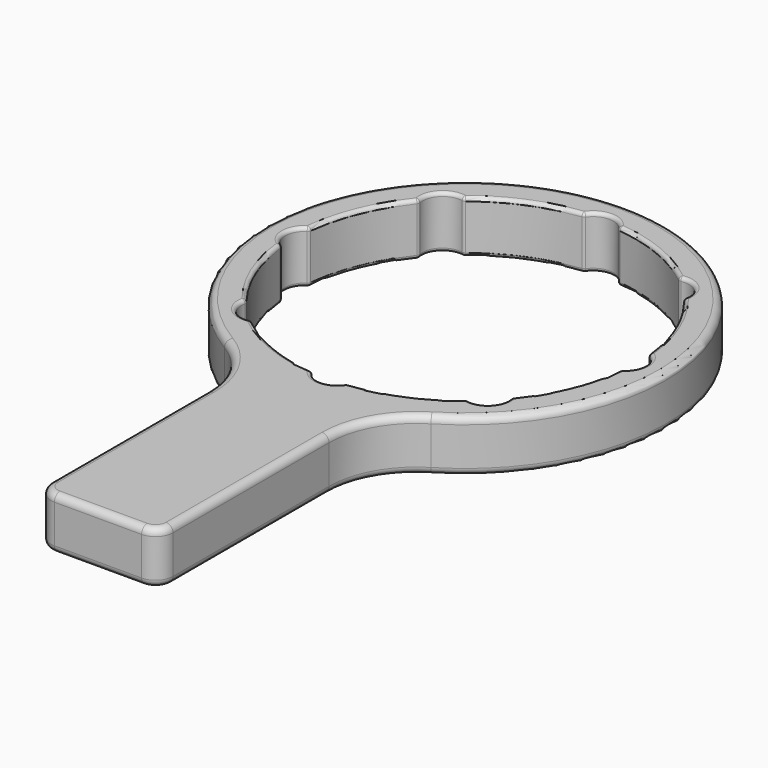
from build123d import *

# Parameters (mm, degrees)
SKETCH_R           = 57.5
SKETCH_R_2         = 49
PAD_DEPTH          = 15
SKETCH001_R        = 5.779503
POCKET_DEPTH       = 341.650659
POLARPATTERN_COUNT = 8
SKETCH002_W        = 35
SKETCH002_H        = 80
PAD001_DEPTH       = 15
FILLET_R           = 5
FILLET003_R        = 25
FILLET004_R        = 2
FILLET005_R        = 1


with BuildPart() as part:
    # Sketch → Pad (new body)
    with BuildSketch(Plane.XY):
        Circle(SKETCH_R)
        Circle(SKETCH_R_2, mode=Mode.SUBTRACT)
    extrude(amount=PAD_DEPTH)

    # Sketch001 (on Face4 of Pad) → Pocket (cut, through all)
    with BuildSketch(Plane.XY.offset(15)):
        with Locations((45.845497, 0)):
            Circle(SKETCH001_R)
    pocket = extrude(amount=-POCKET_DEPTH, mode=Mode.SUBTRACT)

    # PolarPattern: Pocket ×8 about axis
    polarpattern_axis = Axis((0, 0, 15), (0, 0, 1))
    for i in range(1, POLARPATTERN_COUNT):
        add(pocket.rotate(polarpattern_axis, i * 360 / POLARPATTERN_COUNT), mode=Mode.SUBTRACT)

    # Sketch002 → Pad001 (join)
    with BuildSketch(Plane.XY):
        with Locations((0, -91.625)):
            Rectangle(SKETCH002_W, SKETCH002_H)
    extrude(amount=PAD001_DEPTH)

    # Fillet
    fillet_edges = [part.edges().sort_by_distance(p)[0] for p in [
        (-17.5, -131.625, 7.5),
        (17.5, -131.625, 7.5),
    ]]
    fillet(fillet_edges, radius=FILLET_R)

    # Fillet003
    fillet003_edges = [part.edges().sort_by_distance(p)[0] for p in [
        (17.5, -54.772256, 7.5),
        (-17.5, -54.772256, 7.5),
    ]]
    fillet(fillet003_edges, radius=FILLET003_R)

    # Fillet004
    fillet004_edges = [part.edges().sort_by_distance(p)[0] for p in [
        (17.5, -98.667839, 15),
        (0, -131.625, 0),
    ]]
    fillet(fillet004_edges, radius=FILLET004_R)

    # Fillet005
    fillet005_edges = [part.edges().sort_by_distance(p)[0] for p in [
        (-17.5, -70.710678, 7.5),
        (-17.5, -98.667839, 13),
        (-17.5, -98.667839, 2),
        (-17.5, -126.625, 7.5),
        (-17.967331, -65.899426, 13),
        (-17.967331, -65.899426, 2),
        (-23.515949, -54.443969, 13),
        (-23.515949, -54.443969, 2),
        (-29.621212, -49.2832, 7.5),
        (-16.914214, -126.625, 14.414214),
        (-15.5, -98.667839, 15),
        (-16.914214, -70.710678, 14.414214),
        (-16.914214, -126.625, 0.585786),
        (-15.5, -98.667839, 0),
        (-16.914214, -70.710678, 0.585786),
        (-16.035534, -130.160534, 2),
        (-16.035534, -130.160534, 13),
        (-12.5, -131.625, 7.5),
        (-16.004718, -65.514526, 15),
        (-18.809457, -61.046795, 14.414213),
        (-16.004718, -65.514526, 0),
        (-18.809457, -61.046795, 0.585787),
        (-21.997225, -53.142633, 15),
        (-29.319443, -48.781123, 14.414214),
        (-21.997225, -53.142633, 0),
        (-29.319443, -48.781123, 0.585786),
        (-28.311043, 50.047326, 13),
        (-28.311043, 50.047326, 2),
        (57.5, 0, 7.5),
        (-12.5, -131.039214, 14.414214),
        (-14.62132, -128.74632, 15),
        (-17.5, -57.642447, 15),
        (0, -57.5, 15),
        (17.5, -57.642447, 15),
        (16.004718, -65.514526, 15),
        (0, -129.625, 15),
        (15.5, -98.667839, 15),
        (14.62132, -128.74632, 15),
        (-12.5, -131.039214, 0.585786),
        (-14.62132, -128.74632, 0),
        (-17.5, -57.642447, 0),
        (0, -57.5, 0),
        (17.5, -57.642447, 0),
        (16.004718, -65.514526, 0),
        (0, -129.625, 0),
        (15.5, -98.667839, 0),
        (14.62132, -128.74632, 0),
        (12.5, -131.625, 7.5),
        (0, -131.625, 2),
        (0, -131.625, 13),
        (21.997225, -53.142633, 15),
        (17.5, -53.198628, 15),
        (48.30655, -27.326311, 15),
        (8.75, -51.625, 15),
        (-27.326311, 48.30655, 15),
        (-8.75, -51.625, 15),
        (-17.5, -53.198628, 15),
        (2.885257, -50.853286, 15),
        (18.751488, -45.270097, 15),
        (33.918518, -37.998888, 15),
        (37.998888, -33.918518, 15),
        (45.270097, -18.751488, 15),
        (50.853286, -2.885257, 15),
        (50.853286, 2.885257, 15),
        (45.270097, 18.751488, 15),
        (37.998888, 33.918518, 15),
        (33.918518, 37.998888, 15),
        (18.751488, 45.270097, 15),
        (2.885257, 50.853286, 15),
        (-2.885257, 50.853286, 15),
        (-18.751488, 45.270097, 15),
        (-33.918518, 37.998888, 15),
        (-37.998888, 33.918518, 15),
        (-45.270097, 18.751488, 15),
        (-50.853286, 2.885257, 15),
        (-50.853286, -2.885257, 15),
        (-45.270097, -18.751488, 15),
        (-37.998888, -33.918518, 15),
        (-33.918518, -37.998888, 15),
        (-18.751488, -45.270097, 15),
        (-2.885257, -50.853286, 15),
        (56.914214, 0, 14.414214),
        (21.997225, -53.142633, 0),
        (17.5, -53.198628, 0),
        (48.30655, -27.326311, 0),
        (8.75, -51.625, 0),
        (-27.326311, 48.30655, 0),
        (-8.75, -51.625, 0),
        (-17.5, -53.198628, 0),
        (2.885257, -50.853286, 0),
        (18.751488, -45.270097, 0),
        (33.918518, -37.998888, 0),
        (37.998888, -33.918518, 0),
        (45.270097, -18.751488, 0),
        (50.853286, -2.885257, 0),
        (50.853286, 2.885257, 0),
        (45.270097, 18.751488, 0),
        (37.998888, 33.918518, 0),
        (33.918518, 37.998888, 0),
        (18.751488, 45.270097, 0),
        (2.885257, 50.853286, 0),
        (-2.885257, 50.853286, 0),
        (-18.751488, 45.270097, 0),
        (-33.918518, 37.998888, 0),
        (-37.998888, 33.918518, 0),
        (-45.270097, 18.751488, 0),
        (-50.853286, 2.885257, 0),
        (-50.853286, -2.885257, 0),
        (-45.270097, -18.751488, 0),
        (-37.998888, -33.918518, 0),
        (-33.918518, -37.998888, 0),
        (-18.751488, -45.270097, 0),
        (-2.885257, -50.853286, 0),
        (56.914214, 0, 0.585786),
        (29.621212, -49.2832, 7.5),
        (50.047326, -28.311043, 13),
        (50.047326, -28.311043, 2),
        (12.5, -131.039214, 14.414214),
        (18.809457, -61.046795, 14.414214),
        (17.967331, -65.899426, 13),
        (16.914214, -70.710678, 14.414214),
        (17.5, -98.667839, 13),
        (16.914214, -126.625, 14.414214),
        (16.035534, -130.160534, 13),
        (12.5, -131.039214, 0.585786),
        (18.809457, -61.046795, 0.585786),
        (17.967331, -65.899426, 2),
        (16.914214, -70.710678, 0.585787),
        (17.5, -98.667839, 2),
        (16.914214, -126.625, 0.585786),
        (16.035534, -130.160534, 2),
        (17.5, -126.625, 7.5),
        (29.319443, -48.781123, 14.414214),
        (23.515949, -54.443969, 13),
        (5, -48.74423, 7.5),
        (0, -51.625, 7.5),
        (30.931842, -38.00291, 7.5),
        (36.504388, -36.504388, 7.5),
        (38.00291, -30.931842, 7.5),
        (48.74423, -5, 7.5),
        (51.625, 0, 7.5),
        (48.74423, 5, 7.5),
        (38.00291, 30.931842, 7.5),
        (36.504388, 36.504388, 7.5),
        (30.931842, 38.00291, 7.5),
        (5, 48.74423, 7.5),
        (0, 51.625, 7.5),
        (-5, 48.74423, 7.5),
        (-30.931842, 38.00291, 7.5),
        (-36.504388, 36.504388, 7.5),
        (-38.00291, 30.931842, 7.5),
        (-48.74423, 5, 7.5),
        (-51.625, 0, 7.5),
        (-48.74423, -5, 7.5),
        (-38.00291, -30.931842, 7.5),
        (-36.504388, -36.504388, 7.5),
        (-30.931842, -38.00291, 7.5),
        (-5, -48.74423, 7.5),
        (29.319443, -48.781123, 0.585786),
        (23.515949, -54.443969, 2),
        (17.5, -70.710678, 7.5),
    ]]
    fillet(fillet005_edges, radius=FILLET005_R)


solid = part.part
